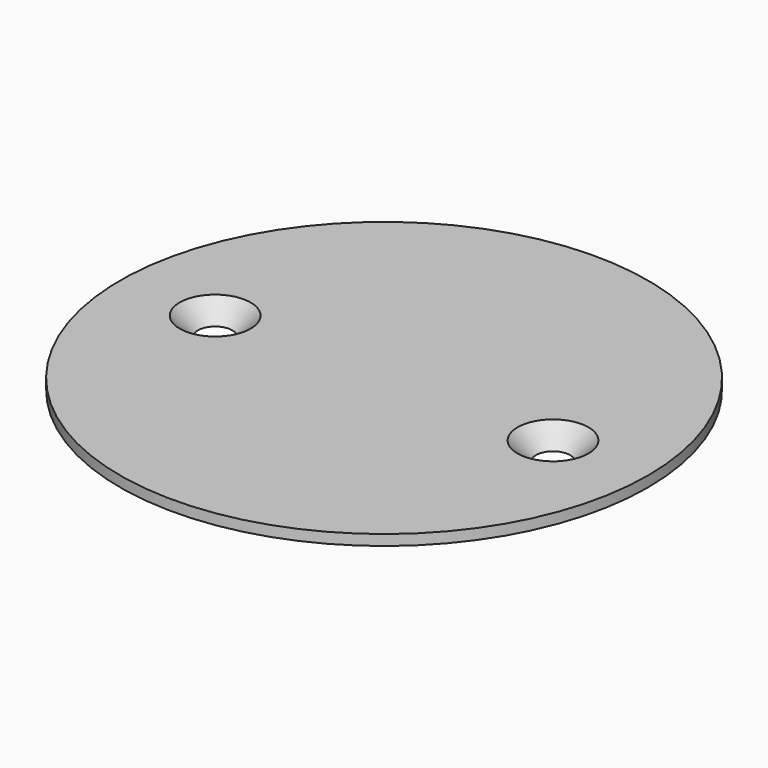
from build123d import *

# Parameters (mm, degrees)
F0_R           = 50
F1_DEPTH       = 2
F3_R           = 10
F4_DEPTH       = 1.5
F5_D           = 6.4
F5_CSINK_D     = 13.44
F5_CSINK_ANGLE = 90


with BuildPart() as f1:
    # F0 (on Top) → F1 (new body)
    with BuildSketch(Plane.XY):
        Circle(F0_R)
    extrude(amount=F1_DEPTH)

    # F3 (on face) → F4 (join)
    with BuildSketch(Plane(origin=(0, 0, 0), x_dir=(1, 0, 0), z_dir=(0, 0, -1))):
        with Locations((31.9376476109, 0)):
            Circle(F3_R)
        with Locations((-32.1291722357, 0)):
            Circle(F3_R)
    extrude(amount=F4_DEPTH)

    # F5 (through all)
    with Locations(Plane.XY.offset(2)):
        with Locations((-32, 0), (32, 0)):
            CounterSinkHole(F5_D / 2, F5_CSINK_D / 2, counter_sink_angle=F5_CSINK_ANGLE)


solid = f1.part
